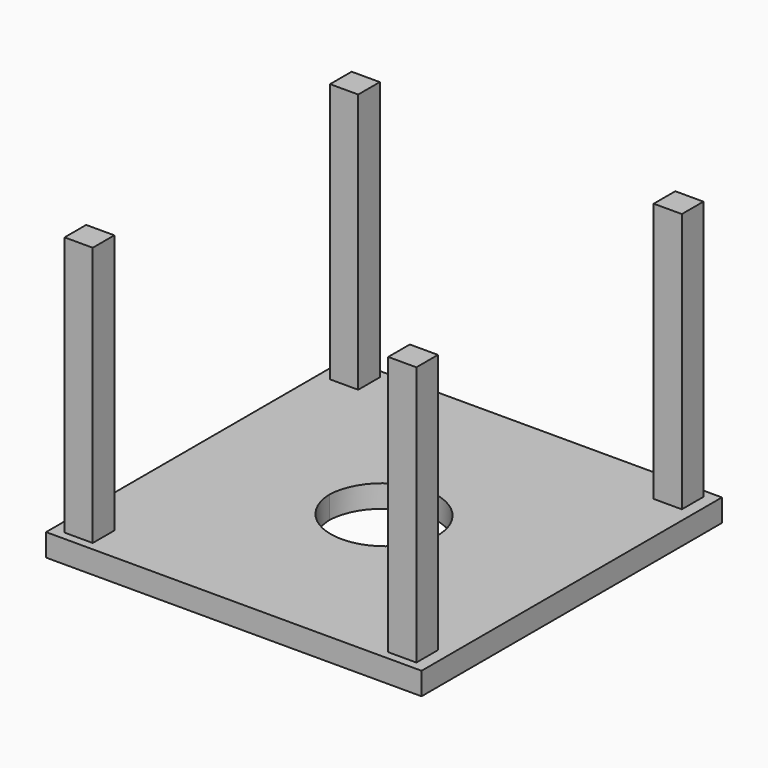
from build123d import *

# Parameters (mm, degrees)
F0_W     = 11.260315
F0_H     = 10.791138
F1_DEPTH = 104
F2_W     = 149.32213
F2_H     = 149.927892
F3_DEPTH = 9
F4_R     = 21.873079
F5_DEPTH = 9.001


with BuildPart() as f1:
    # F0 (on Top) → F1 (new body)
    with BuildSketch(Plane.XY):
        with Locations((-64.74682, -66.388942)):
            Rectangle(F0_W, F0_H)
    extrude(amount=F1_DEPTH)

    # F2 (on Top) → F3 (join)
    with BuildSketch(Plane.XY):
        with Locations((-0.454325, -0.151444)):
            Rectangle(F2_W, F2_H)
    extrude(amount=-F3_DEPTH)

    # F4 (on face) → F5 (cut, through all)
    with BuildSketch(Plane.XY):
        with Locations((0, 0.696229)):
            Circle(F4_R)
    extrude(amount=-F5_DEPTH, mode=Mode.SUBTRACT)

    # F6: F1 across plane


with BuildPart() as f1_1:
    add(f1.part)
    add(f1.part.mirror(Plane.XZ))

    # F7: F1 across plane


with BuildPart() as f1_2:
    add(f1_1.part)
    add(f1_1.part.mirror(Plane.YZ))


solid = f1_2.part
